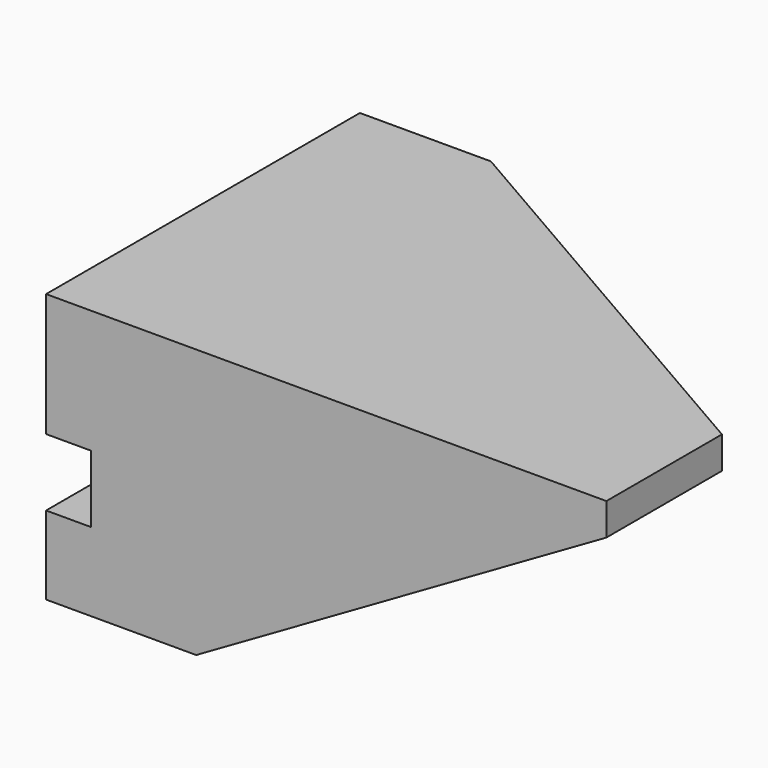
from build123d import *

# Parameters (mm, degrees)
F1_DEPTH = 4445
F2_W     = 4445
F2_H     = 3048
F3_DEPTH = 4445
F5_DEPTH = 4445.001
F7_DEPTH = 3048.001


with BuildPart() as f1:
    # F0 (on Front) → F1 (new body)
    with BuildSketch(Plane.XZ):
        Polygon((886.677175, 1148.970352), (-1018.322825, 1148.970352), (-1018.322825, -248.029648), (-510.322825, -248.029648), (-510.322825, -1010.029648), (-1018.322825, -1010.029648), (-1018.322825, -1899.029648), (886.677175, -1899.029648), align=None)
    extrude(amount=F1_DEPTH)

    # F2 (on face) → F3 (join)
    with BuildSketch(Plane.XZ.offset(4445)):
        with Locations((3109.177175, -375.029648)):
            Rectangle(F2_W, F2_H)
    extrude(amount=-F3_DEPTH)

    # F4 (on face) → F5 (cut, through all)
    with BuildSketch(Plane.XZ.offset(4445)):
        Polygon((5331.677175, 784.801387), (683.145463, -1899.029648), (5331.677175, -1899.029648), align=None)
    extrude(amount=-F5_DEPTH, mode=Mode.SUBTRACT)

    # F6 (on face) → F7 (cut, through all)
    with BuildSketch(Plane.XY.offset(1148.970352)):
        Polygon((5331.677175, 0), (466.873348, 0), (5331.677175, -2808.695799), align=None)
    extrude(amount=-F7_DEPTH, mode=Mode.SUBTRACT)


solid = f1.part
